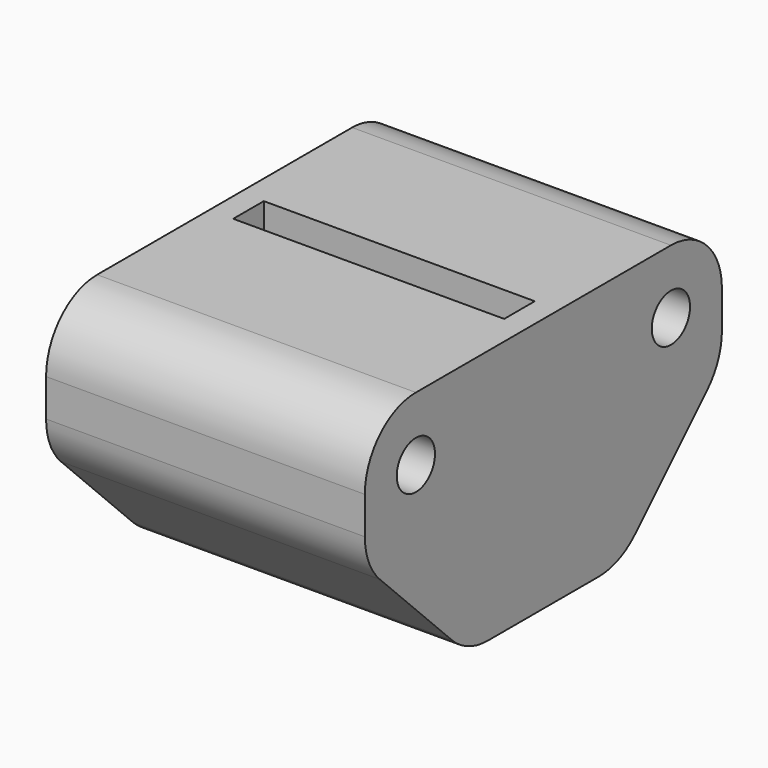
from build123d import *

# Parameters (mm, degrees)
F0_W     = 10
F0_H     = 6
F0_W_2   = 8.5
F0_H_2   = 1.2
F1_DEPTH = 8
F2_R     = 0.75
F3_DEPTH = 10
F5_R     = 2


with BuildPart() as f1:
    # F0 (on Top) → F1 (new body)
    with BuildSketch(Plane.XY):
        Rectangle(F0_W, F0_H)
        Rectangle(F0_W_2, F0_H_2, mode=Mode.SUBTRACT)
    extrude(amount=F1_DEPTH)


with BuildPart() as f3:
    # F2 (on face) → F3 (new body)
    with BuildSketch(Plane.YZ.offset(5)):
        with BuildLine():
            Line((-3, 4), (-3, 8))
            Line((-3, 8), (-5, 8))
            ThreePointArc((-5, 8), (-6.414214, 7.414214), (-7, 6))
            Line((-7, 6), (-7, 4))
            Line((-7, 4), (-3, 4))
        make_face()
        with Locations((-5, 6)):
            Circle(F2_R, mode=Mode.SUBTRACT)
        Polygon((-3, 0), (-3, 4), (-7, 4), align=None)
        with BuildLine():
            Line((5, 8), (3, 8))
            Line((3, 8), (3, 4))
            Line((3, 4), (7, 4))
            Line((7, 4), (7, 6))
            ThreePointArc((7, 6), (6.414214, 7.414214), (5, 8))
        make_face()
        with Locations((5, 6)):
            Circle(F2_R, mode=Mode.SUBTRACT)
        Polygon((7, 4), (3, 4), (3, 0), align=None)
    extrude(amount=-F3_DEPTH)


with BuildPart() as f1_1:
    add(f1.part)

    # F4: union F3
    add(f3.part)

    # F5
    f5_edges = [f1_1.edges().sort_by_distance(p)[0] for p in [
        (0, 3, 0),
        (0, 7, 4),
        (0, -3, 0),
        (0, -7, 4),
    ]]
    fillet(f5_edges, radius=F5_R)


solid = f1_1.part
